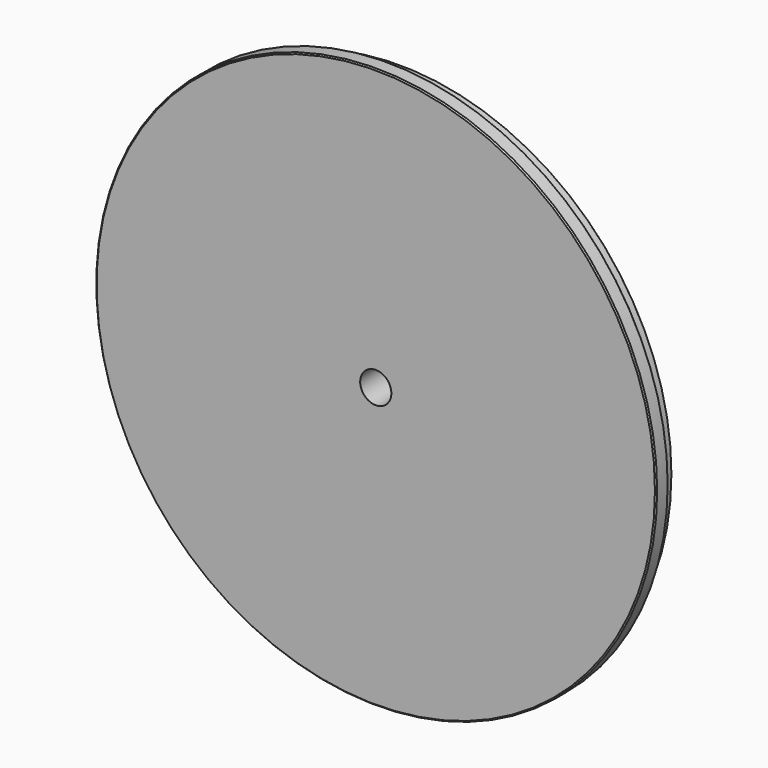
from build123d import *

# Parameters (mm, degrees)
F0_R     = 27.686
F1_DEPTH = 1.5875
F2_R     = 28.575
F3_DEPTH = 1.5875
F4_R     = 1.5875
F5_DEPTH = 3.176
F6_SIZE  = 0.127


with BuildPart() as f1:
    # F0 (on Front) → F1 (new body)
    with BuildSketch(Plane.XZ):
        Circle(F0_R)
    extrude(amount=F1_DEPTH)

    # F2 (on face) → F3 (join)
    with BuildSketch(Plane.XZ.offset(1.5875)):
        Circle(F2_R)
    extrude(amount=F3_DEPTH)

    # F4 (on face) → F5 (cut, through all)
    with BuildSketch(Plane.XZ.offset(3.175)):
        Circle(F4_R)
    extrude(amount=-F5_DEPTH, mode=Mode.SUBTRACT)

    # F6
    f6_edges = [f1.edges().sort_by_distance(p)[0] for p in [
        (-28.575, -3.175, 0),
        (-27.686, 0, 0),
        (-28.575, -1.5875, 0),
    ]]
    chamfer(f6_edges, length=F6_SIZE)


solid = f1.part
